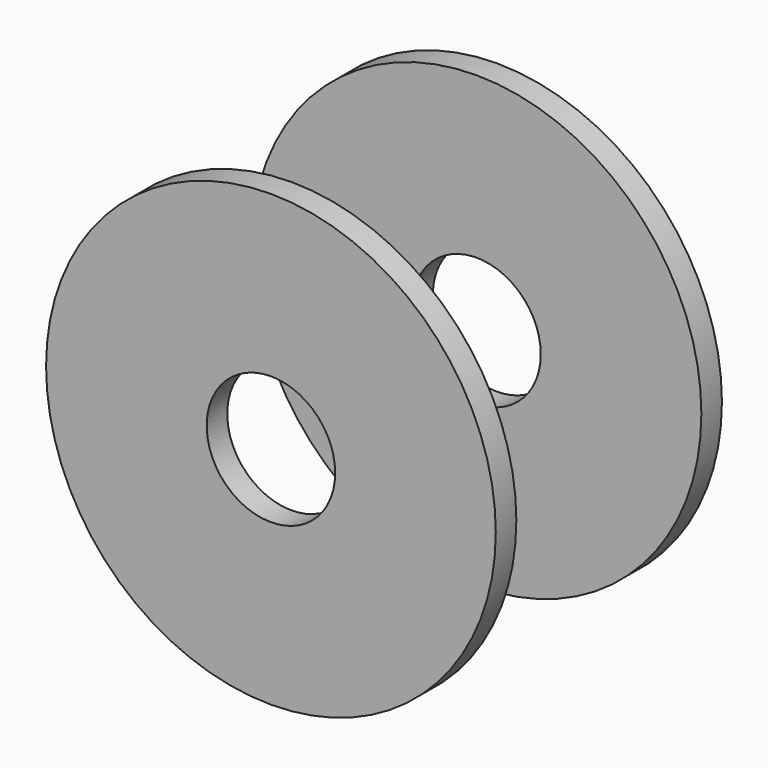
from build123d import *

# Parameters (mm, degrees)
F0_R     = 22.225
F0_R_2   = 6.35
F1_DEPTH = 2.54
F3_R     = 22.225
F3_R_2   = 6.35
F4_DEPTH = 2.54


with BuildPart() as f1:
    # F0 (on Front) → F1 (new body)
    with BuildSketch(Plane.XZ):
        Circle(F0_R)
        Circle(F0_R_2, mode=Mode.SUBTRACT)
    extrude(amount=F1_DEPTH)


with BuildPart() as f4:
    # F3 (on offset) → F4 (new body)
    with BuildSketch(Plane.XZ.offset(25.4)):
        Circle(F3_R)
        Circle(F3_R_2, mode=Mode.SUBTRACT)
    extrude(amount=F4_DEPTH)


solid = Compound([f1.part, f4.part])
